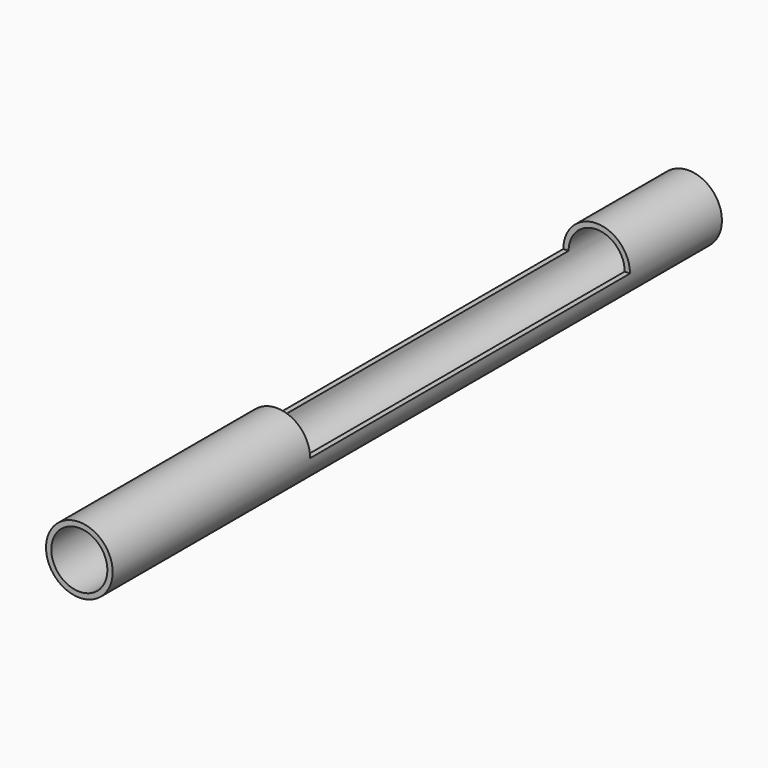
from build123d import *

# Parameters (mm, degrees)
F0_R     = 13.335
F1_DEPTH = 304.8
F2_R     = 11.2268
F3_DEPTH = 304.801
F5_W     = 26.67
F5_H     = 160
F6_DEPTH = 13.335


with BuildPart() as f1:
    # F0 (on Front) → F1 (new body)
    with BuildSketch(Plane.XZ):
        Circle(F0_R)
    extrude(amount=F1_DEPTH)

    # F2 (on face) → F3 (cut, through all)
    with BuildSketch(Plane.XZ.offset(304.8)):
        Circle(F2_R)
    extrude(amount=-F3_DEPTH, mode=Mode.SUBTRACT)

    # F5 (on offset) → F6 (cut)
    with BuildSketch(Plane.XY.offset(13.335)):
        with Locations((0, -126)):
            Rectangle(F5_W, F5_H)
    extrude(amount=-F6_DEPTH, mode=Mode.SUBTRACT)


solid = f1.part
